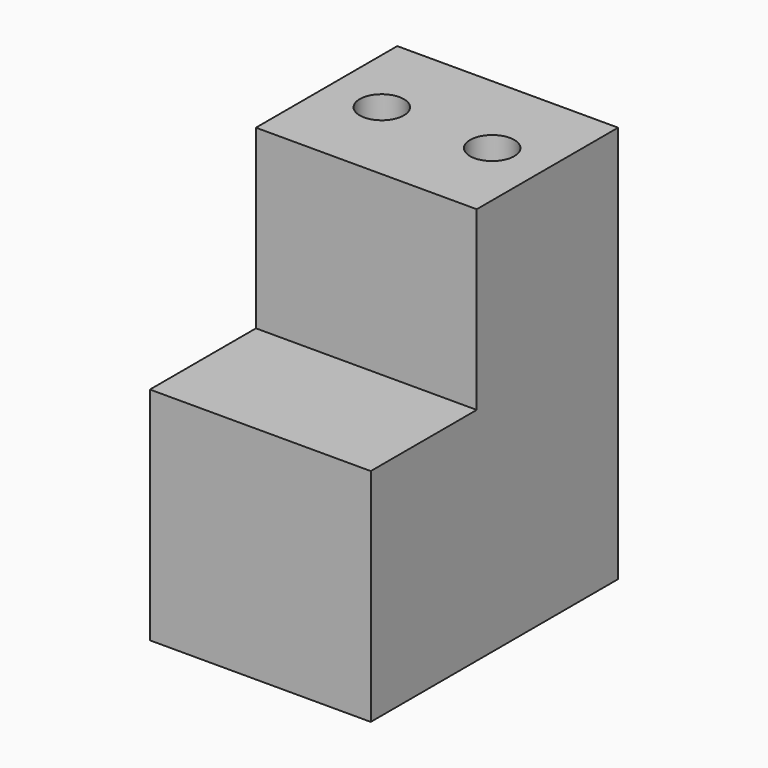
from build123d import *

# Parameters (mm, degrees)
F0_W     = 25
F0_H     = 35
F1_DEPTH = 25
F2_W     = 20
F2_H     = 20
F3_DEPTH = 25
F5_D     = 5
F5_DEPTH = 20
F5_TIP   = 1.5021515476


with BuildPart() as f1:
    # F0 (on Top) → F1 (new body)
    with BuildSketch(Plane.XY):
        with Locations((12.5, 17.5)):
            Rectangle(F0_W, F0_H)
    extrude(amount=F1_DEPTH)

    # F2 (on face) → F3 (join)
    with BuildSketch(Plane.YZ.offset(25)):
        with Locations((25, 35)):
            Rectangle(F2_W, F2_H)
    extrude(amount=-F3_DEPTH)

    # F5
    with Locations(Plane.XY.offset(45)):
        with Locations((6.25, 25), (18.75, 25)):
            Hole(F5_D / 2, depth=F5_DEPTH)
            with Locations((0, 0, -(F5_DEPTH + F5_TIP / 2))):  # 118° drill point
                Cone(0, F5_D / 2, F5_TIP, mode=Mode.SUBTRACT)


solid = f1.part
